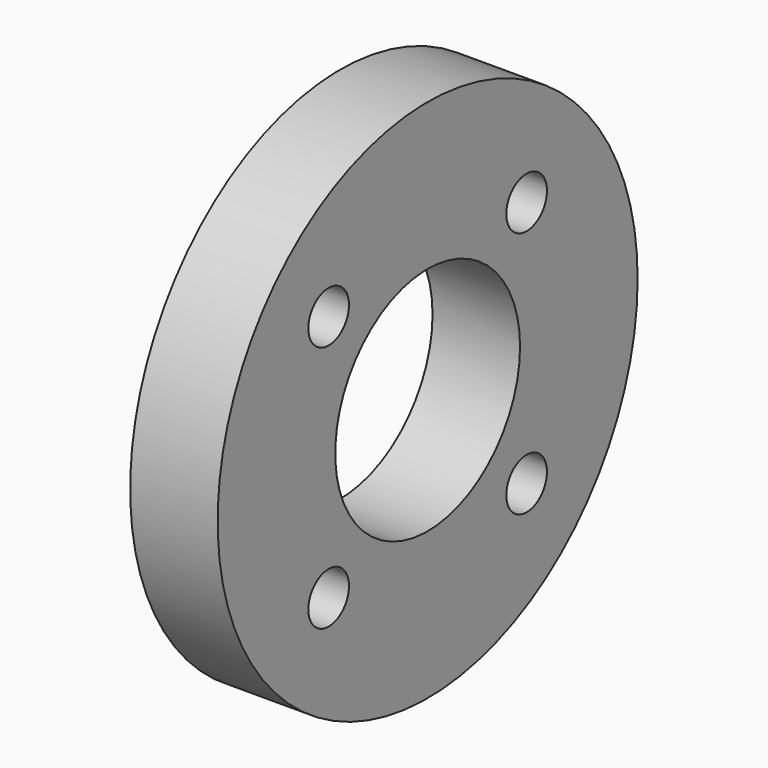
from build123d import *

# Parameters (mm, degrees)
F0_R     = 75
F0_R_2   = 7.25
F0_R_3   = 33
F1_DEPTH = 25


with BuildPart() as f1:
    # F0 (on Right) → F1 (new body)
    with BuildSketch(Plane.YZ):
        Circle(F0_R)
        with Locations((-35.355339, -35.355339)):
            Circle(F0_R_2, mode=Mode.SUBTRACT)
        with Locations((35.355339, -35.355339)):
            Circle(F0_R_2, mode=Mode.SUBTRACT)
        with Locations((-35.355339, 35.355339)):
            Circle(F0_R_2, mode=Mode.SUBTRACT)
        Circle(F0_R_3, mode=Mode.SUBTRACT)
        with Locations((35.355339, 35.355339)):
            Circle(F0_R_2, mode=Mode.SUBTRACT)
    extrude(amount=F1_DEPTH)


solid = f1.part
